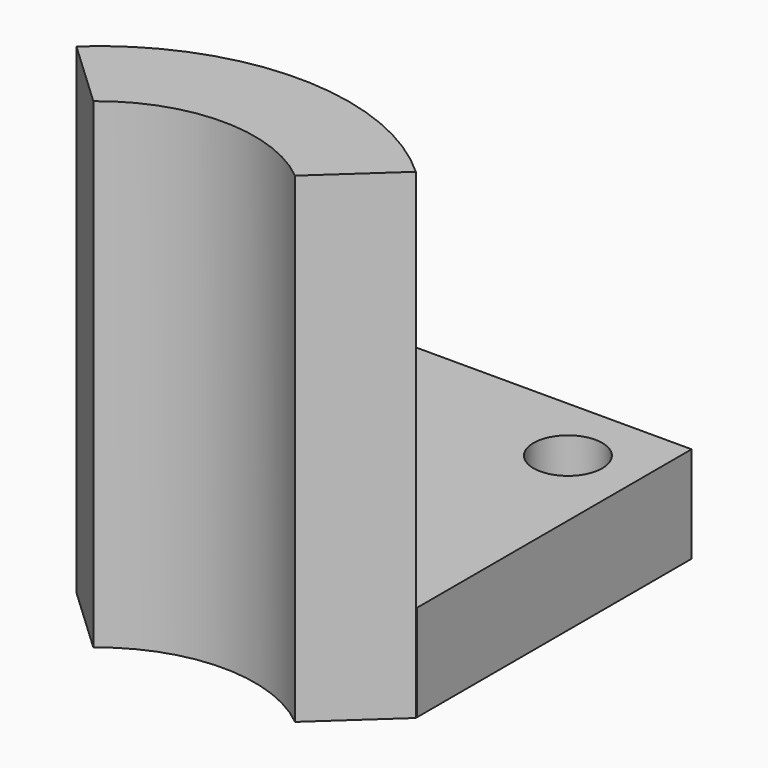
from build123d import *

# Parameters (mm, degrees)
F1_DEPTH = 88.9
F3_W     = 62.738
F3_H     = 17.8308
F4_DEPTH = 63.5
F5_R     = 6.35
F6_DEPTH = 25.4


with BuildPart() as f1:
    # F0 (on Top) → F1 (new body)
    with BuildSketch(Plane.XY):
        with BuildLine():
            ThreePointArc((-18.647595, 22.647887), (0, 29.337), (18.647595, 22.647887))
            Line((18.647595, 22.647887), (31.4916, 34.48949))
            ThreePointArc((31.4916, 34.48949), (0.1226, 46.715736), (-31.2464, 34.48949))
            Line((-31.2464, 34.48949), (-18.647595, 22.647887))
        make_face()
    extrude(amount=F1_DEPTH)

    # F3 (on offset) → F4 (join)
    with BuildSketch(Plane.XZ.offset(-34.721038)):
        with Locations((0.1226, 8.9154)):
            Rectangle(F3_W, F3_H)
    extrude(amount=-F4_DEPTH)

    # F5 (on face) → F6 (cut)
    with BuildSketch(Plane.XY.offset(17.8308)):
        with Locations((18.7916, 85.521038)):
            Circle(F5_R)
        with Locations((-18.5464, 85.521038)):
            Circle(F5_R)
    extrude(amount=-F6_DEPTH, mode=Mode.SUBTRACT)


solid = f1.part
